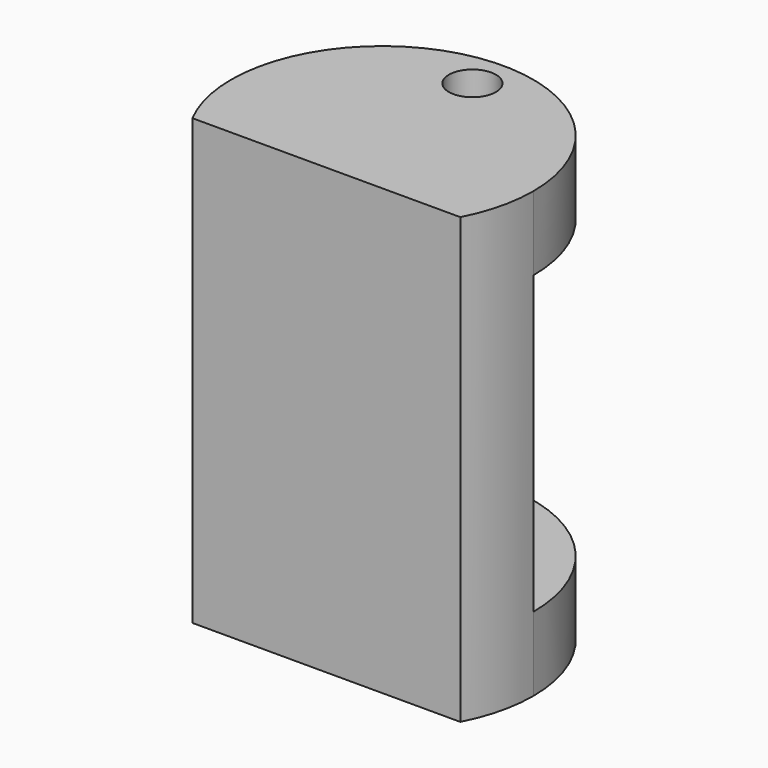
from build123d import *

# Parameters (mm, degrees)
F0_R          = 7.9369782362
F1_DEPTH      = 75
F1_DEPTH_BACK = 75
F2_DEPTH      = 75
F2_DEPTH_BACK = 75
F3_DEPTH      = 50
F3_DEPTH_BACK = 50
F4_DEPTH      = 25
F4_DEPTH_BACK = 25
F5_T          = -1


with BuildPart() as f1:
    # F0 (on Top) → F1 (new body, two sides)
    with BuildSketch(Plane.XY) as f1_sk:
        with BuildLine():
            Line((-50.9958260273, 0), (50.9958260273, 0))
            ThreePointArc((50.9958260273, 0), (0, 50.9958260273), (-50.9958260273, 0))
        make_face()
        with Locations((0, 38.052380085)):
            Circle(F0_R, mode=Mode.SUBTRACT)
    extrude(amount=F1_DEPTH)
    extrude(f1_sk.sketch, amount=-F1_DEPTH_BACK)

    # F0 (on Top) → F2 (join, two sides)
    with BuildSketch(Plane.XY) as f2_sk:
        with BuildLine():
            Line((0, -23.5751420259), (45.2193205462, -23.5751420259))
            ThreePointArc((45.2193205462, -23.5751420259), (49.5306514991, -12.1362611326), (50.9958260273, 0))
            Line((50.9958260273, 0), (-50.9958260273, 0))
            ThreePointArc((-50.9958260273, 0), (-49.5306514991, -12.1362611326), (-45.2193205462, -23.5751420259))
            Line((-45.2193205462, -23.5751420259), (0, -23.5751420259))
        make_face()
    extrude(amount=F2_DEPTH)
    extrude(f2_sk.sketch, amount=-F2_DEPTH_BACK)

    # F0 (on Top) → F3 (cut, two sides)
    with BuildSketch(Plane.XY) as f3_sk:
        with BuildLine():
            Line((-50.9958260273, 0), (50.9958260273, 0))
            ThreePointArc((50.9958260273, 0), (0, 50.9958260273), (-50.9958260273, 0))
        make_face()
        with Locations((0, 38.052380085)):
            Circle(F0_R, mode=Mode.SUBTRACT)
    extrude(amount=-F3_DEPTH, mode=Mode.SUBTRACT)
    extrude(f3_sk.sketch, amount=F3_DEPTH_BACK, mode=Mode.SUBTRACT)


with BuildPart() as f4:
    # F0 (on Top) → F4 (new body, two sides)
    with BuildSketch(Plane.XY) as f4_sk:
        with Locations((0, 38.052380085)):
            Circle(F0_R)
    extrude(amount=F4_DEPTH)
    extrude(f4_sk.sketch, amount=-F4_DEPTH_BACK)

    # F5
    f5_openings = [f4.faces().sort_by_distance(p)[0] for p in [
        (0, 38.05238, 25),
    ]]
    offset(amount=F5_T, openings=f5_openings)


solid = Compound([f1.part, f4.part])
